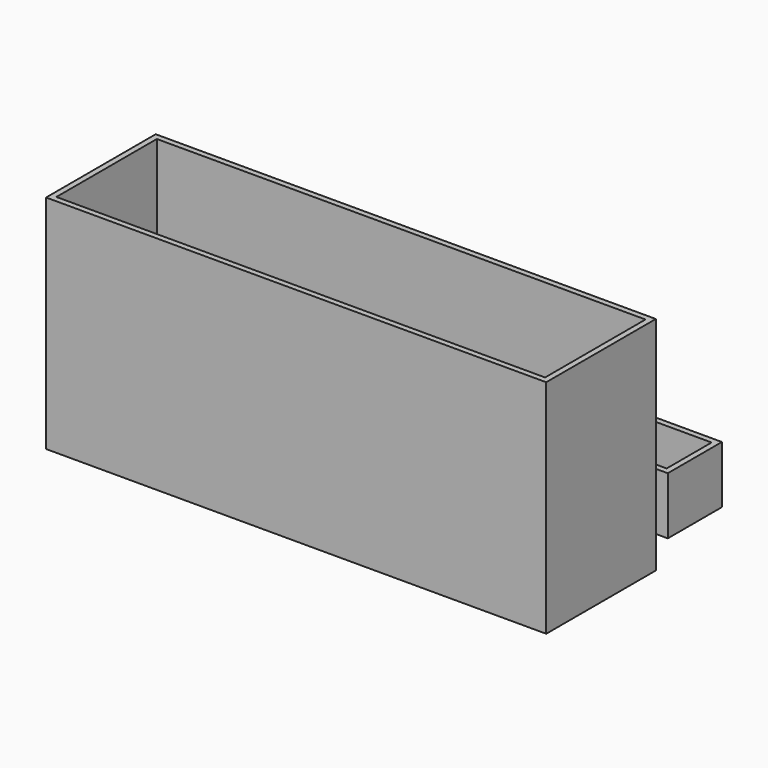
from build123d import *

# Parameters (mm, degrees)
F0_W     = 221.422359
F0_H     = 60.654789
F1_DEPTH = 98.044
F2_T     = -2.54
F3_R     = 94.6023
F4_DEPTH = 230.632
F5_W     = 103.134141
F5_H     = 29.956847
F5_W_2   = 120.787504
F6_DEPTH = 25.4
F7_T     = -2.54


with BuildPart() as f1:
    # F0 (on Top) → F1 (new body)
    with BuildSketch(Plane.XY):
        with Locations((-110.71118, -96.354797)):
            Rectangle(F0_W, F0_H)
    extrude(amount=F1_DEPTH)

    # F2
    f2_openings = [f1.faces().sort_by_distance(p)[0] for p in [
        (-110.71118, -96.354797, 98.044),
    ]]
    offset(amount=F2_T, openings=f2_openings)

    # F3 (on Top) → F4 (cut)
    with BuildSketch(Plane.XY):
        with Locations((115.478948, 56.669008)):
            Circle(F3_R)
    extrude(amount=F4_DEPTH, mode=Mode.SUBTRACT)


with BuildPart() as f6:
    # F5 (on Top) → F6 (new body)
    with BuildSketch(Plane.XY):
        with Locations((-184.153534, -29.678948)):
            Rectangle(F5_W, F5_H)
        with Locations((-72.192712, -29.678948)):
            Rectangle(F5_W_2, F5_H)
    extrude(amount=F6_DEPTH)

    # F7
    f7_openings = [f6.faces().sort_by_distance(p)[0] for p in [
        (-123.759782, -29.678949, 25.4),
    ]]
    offset(amount=F7_T, openings=f7_openings)


solid = Compound([f1.part, f6.part])
